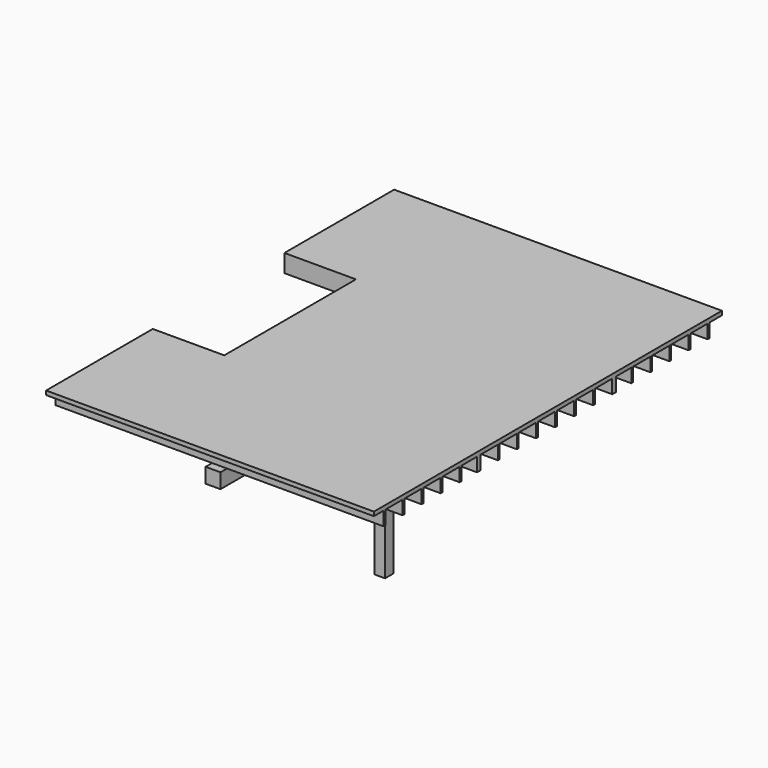
from build123d import *

# Parameters (mm, degrees)
F0_W      = 5867.4
F0_H      = 7696.2
F1_DEPTH  = 69.135625
F2_W      = 5867.4
F2_H      = 7696.2
F2_W_2    = 5791.2
F2_H_2    = 7620
F3_DEPTH  = 234.95
F4_W      = 38.1
F4_H      = 234.95
F5_DEPTH  = 5863.2060388453
F7_W      = 254
F7_H      = 254
F8_DEPTH  = 7289.8
F9_W      = 184.15
F9_H      = 184.15
F10_DEPTH = 2794
F12_DEPTH = 184.15
F13_W     = 5867.4
F13_H     = 7696.2
F13_W_2   = 5590.8448
F13_H_2   = 7419.6448
F14_DEPTH = 304.085625
F15_W     = 1219.2
F15_H     = 2806.7
F16_DEPTH = 304.8
F17_W     = 368.3
F17_H     = 234.95
F18_DEPTH = 38.1
F19_DEPTH = 38.1
F20_DEPTH = 38.1


with BuildPart() as f1:
    # F0 (on Top) → F1 (new body)
    with BuildSketch(Plane.XY):
        with Locations((2929.5060388453, -3848.1)):
            Rectangle(F0_W, F0_H)
    extrude(amount=F1_DEPTH)

    # F2 (on face) → F3 (join)
    with BuildSketch(Plane(origin=(0, 0, 0), x_dir=(1, 0, 0), z_dir=(0, 0, -1))):
        with Locations((2929.5060388453, 3848.1)):
            Rectangle(F2_W, F2_H)
        with Locations((2929.5060388453, 3848.1)):
            Rectangle(F2_W_2, F2_H_2, mode=Mode.SUBTRACT)
    extrude(amount=F3_DEPTH)

    # F4 (on Right) → F5 (join, through all)
    with BuildSketch(Plane.YZ):
        with Locations((-425.45, -117.475)):
            Rectangle(F4_W, F4_H)
        with Locations((-831.85, -117.475)):
            Rectangle(F4_W, F4_H)
        with Locations((-1238.25, -117.475)):
            Rectangle(F4_W, F4_H)
        with Locations((-1644.65, -117.475)):
            Rectangle(F4_W, F4_H)
        with Locations((-2051.05, -117.475)):
            Rectangle(F4_W, F4_H)
        with Locations((-2457.45, -117.475)):
            Rectangle(F4_W, F4_H)
        with Locations((-2863.85, -117.475)):
            Rectangle(F4_W, F4_H)
        with Locations((-3270.25, -117.475)):
            Rectangle(F4_W, F4_H)
        with Locations((-3676.65, -117.475)):
            Rectangle(F4_W, F4_H)
        with Locations((-4083.05, -117.475)):
            Rectangle(F4_W, F4_H)
        with Locations((-4489.45, -117.475)):
            Rectangle(F4_W, F4_H)
        with Locations((-4895.85, -117.475)):
            Rectangle(F4_W, F4_H)
        with Locations((-5302.25, -117.475)):
            Rectangle(F4_W, F4_H)
        with Locations((-5708.65, -117.475)):
            Rectangle(F4_W, F4_H)
        with Locations((-6115.05, -117.475)):
            Rectangle(F4_W, F4_H)
        with Locations((-6521.45, -117.475)):
            Rectangle(F4_W, F4_H)
        with Locations((-6927.85, -117.475)):
            Rectangle(F4_W, F4_H)
        with Locations((-7334.25, -117.475)):
            Rectangle(F4_W, F4_H)
    extrude(amount=F5_DEPTH)

    # F7 (on offset) → F8 (join)
    with BuildSketch(Plane(origin=(0, -203.2, 0), x_dir=(-1, 0, 0), z_dir=(0, 1, 0))):
        with Locations((-2929.5060388453, -361.95)):
            Rectangle(F7_W, F7_H)
    extrude(amount=-F8_DEPTH)

    # F9 (on face) → F10 (join)
    with BuildSketch(Plane(origin=(0, 0, -488.95), x_dir=(1, 0, 0), z_dir=(0, 0, -1))):
        with Locations((2929.5060388453, 3848.1)):
            Rectangle(F9_W, F9_H)
    extrude(amount=F10_DEPTH)

    # F11 (on face) → F12 (join, through all)
    with BuildSketch(Plane.YZ.offset(3021.5810388453)):
        Polygon((-3940.175, -838.122572489), (-4289.347572489, -488.95), (-4549.775, -488.95), (-3940.175, -1098.55), align=None)
        Polygon((-3406.852427511, -488.95), (-3756.025, -838.122572489), (-3756.025, -1098.55), (-3146.425, -488.95), align=None)
    extrude(amount=-F12_DEPTH)

    # F13 (on face) → F14 (cut, through all)
    with BuildSketch(Plane.XY.offset(69.135625)):
        with Locations((2929.5060388453, -3848.1)):
            Rectangle(F13_W, F13_H)
        with Locations((2929.5060388453, -3848.1)):
            Rectangle(F13_W_2, F13_H_2, mode=Mode.SUBTRACT)
    extrude(amount=-F14_DEPTH, mode=Mode.SUBTRACT)

    # F15 (on face) → F16 (cut)
    with BuildSketch(Plane.XY.offset(69.135625)):
        with Locations((743.6836388453, -3879.85)):
            Rectangle(F15_W, F15_H)
    extrude(amount=-F16_DEPTH, mode=Mode.SUBTRACT)

    # F17 (on face) → F18 (join)
    with BuildSketch(Plane(origin=(1353.2836388453, 0, 0), x_dir=(0, -1, 0), z_dir=(-1, 0, 0))):
        with Locations((2660.65, -117.475)):
            Rectangle(F17_W, F17_H)
        with Locations((3067.05, -117.475)):
            Rectangle(F17_W, F17_H)
        with Locations((3473.45, -117.475)):
            Rectangle(F17_W, F17_H)
        with Locations((3879.85, -117.475)):
            Rectangle(F17_W, F17_H)
        with Locations((4286.25, -117.475)):
            Rectangle(F17_W, F17_H)
        with Locations((4692.65, -117.475)):
            Rectangle(F17_W, F17_H)
        with Locations((5099.05, -117.475)):
            Rectangle(F17_W, F17_H)
    extrude(amount=-F18_DEPTH)

    # F19 (add): a face of the model
    f19_faces = [f1.faces().sort_by_distance(p)[0] for p in [
        (2929.5060388453, -5321.3, -117.475),
    ]]
    extrude(f19_faces, amount=F19_DEPTH)

    # F20 (add): a face of the model
    f20_faces = [f1.faces().sort_by_distance(p)[0] for p in [
        (2929.5060388453, -2438.4, -117.475),
    ]]
    extrude(f20_faces, amount=F20_DEPTH)


solid = f1.part
